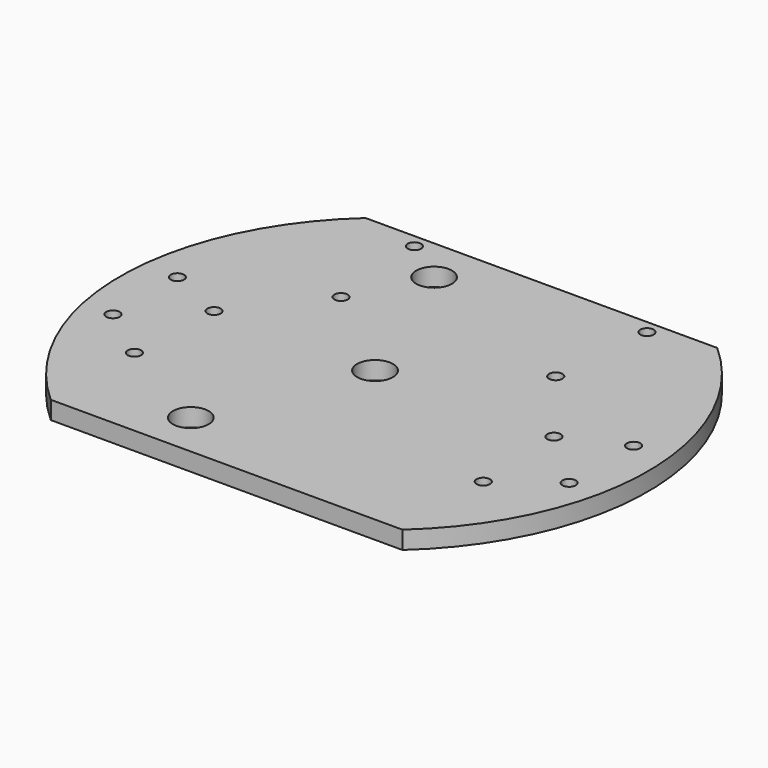
from build123d import *

# Parameters (mm, degrees)
CYLINDER1271_R     = 1.5
CYLINDER1271_DEPTH = 100
CYLINDER1270_R     = 1.5
CYLINDER1270_DEPTH = 100
CYLINDER1269_R     = 1.5
CYLINDER1269_DEPTH = 32
CYLINDER1268_R     = 1.5
CYLINDER1268_DEPTH = 32
BOX235_W           = 200
BOX235_H           = 100
BOX235_DEPTH       = 100
BOX233_W           = 200
BOX233_H           = 100
BOX233_DEPTH       = 100
CYLINDER1127_R     = 4
CYLINDER1127_DEPTH = 100
CYLINDER1128_R     = 4
CYLINDER1128_DEPTH = 100
CYLINDER1129_R     = 4
CYLINDER1129_DEPTH = 100
CYLINDER1125_R     = 4
CYLINDER1125_DEPTH = 100
CYLINDER1130_R     = 4
CYLINDER1130_DEPTH = 100
CYLINDER1126_R     = 4
CYLINDER1126_DEPTH = 100
CYLINDER1102_R     = 1.5
CYLINDER1102_DEPTH = 100
CYLINDER1103_R     = 1.5
CYLINDER1103_DEPTH = 100
CYLINDER1104_R     = 1.5
CYLINDER1104_DEPTH = 100
CYLINDER1105_R     = 1.5
CYLINDER1105_DEPTH = 100
CYLINDER1106_R     = 1.5
CYLINDER1106_DEPTH = 100
CYLINDER1107_R     = 1.5
CYLINDER1107_DEPTH = 100
CYLINDER1108_R     = 1.5
CYLINDER1108_DEPTH = 100
CYLINDER1101_R     = 1.5
CYLINDER1101_DEPTH = 100
CYLINDER1092_R     = 59
CYLINDER1092_DEPTH = 4


with BuildPart() as obj1:
    # Cylinder1271 → Cylinder1271 (new body)
    with BuildSketch(Plane(origin=(14, 0, -60), x_dir=(1, 0, 0), z_dir=(0, 0, 1))):
        Circle(CYLINDER1271_R)
    extrude(amount=CYLINDER1271_DEPTH)


with BuildPart() as obj2:
    # Cylinder1270 → Cylinder1270 (new body)
    with BuildSketch(Plane(origin=(90, 0, -60), x_dir=(1, 0, 0), z_dir=(0, 0, 1))):
        Circle(CYLINDER1270_R)
    extrude(amount=CYLINDER1270_DEPTH)

    # Compound834: union obj1
    add(obj1.part)


with BuildPart() as obj3:
    # Cylinder1269 → Cylinder1269 (new body)
    with BuildSketch(Plane(origin=(78, 41, -42), x_dir=(1, 0, 0), z_dir=(0, 0, 1))):
        Circle(CYLINDER1269_R)
    extrude(amount=CYLINDER1269_DEPTH)


with BuildPart() as compound833:
    # Cylinder1268 → Cylinder1268 (new body)
    with BuildSketch(Plane(origin=(26, 41, -42), x_dir=(1, 0, 0), z_dir=(0, 0, 1))):
        Circle(CYLINDER1268_R)
    extrude(amount=CYLINDER1268_DEPTH)

    # Compound833: union obj3
    add(obj3.part)


with BuildPart() as krychle235:
    # Box235 → Box235 (new body)
    with BuildSketch(Plane(origin=(-60, 44, -90), x_dir=(1, 0, 0), z_dir=(0, 0, 1))):
        with Locations((100, 50)):
            Rectangle(BOX235_W, BOX235_H)
    extrude(amount=BOX235_DEPTH)


with BuildPart() as krychle233:
    # Box233 → Box233 (new body)
    with BuildSketch(Plane(origin=(-60, -144, -90), x_dir=(1, 0, 0), z_dir=(0, 0, 1))):
        with Locations((100, 50)):
            Rectangle(BOX233_W, BOX233_H)
    extrude(amount=BOX233_DEPTH)


with BuildPart() as obj4:
    # Cylinder1127 → Cylinder1127 (new body)
    with BuildSketch(Plane(origin=(-36, 34, -90), x_dir=(1, 0, 0), z_dir=(0, 0, 1))):
        Circle(CYLINDER1127_R)
    extrude(amount=CYLINDER1127_DEPTH)


with BuildPart() as obj5:
    # Cylinder1128 → Cylinder1128 (new body)
    with BuildSketch(Plane(origin=(-36, -34, -90), x_dir=(1, 0, 0), z_dir=(0, 0, 1))):
        Circle(CYLINDER1128_R)
    extrude(amount=CYLINDER1128_DEPTH)


with BuildPart() as obj6:
    # Cylinder1129 → Cylinder1129 (new body)
    with BuildSketch(Plane(origin=(50, 0, -90), x_dir=(1, 0, 0), z_dir=(0, 0, 1))):
        Circle(CYLINDER1129_R)
    extrude(amount=CYLINDER1129_DEPTH)


with BuildPart() as obj7:
    # Cylinder1125 → Cylinder1125 (new body)
    with BuildSketch(Plane(origin=(36, 34, -90), x_dir=(1, 0, 0), z_dir=(0, 0, 1))):
        Circle(CYLINDER1125_R)
    extrude(amount=CYLINDER1125_DEPTH)


with BuildPart() as obj8:
    # Cylinder1130 → Cylinder1130 (new body)
    with BuildSketch(Plane(origin=(36, -34, -90), x_dir=(1, 0, 0), z_dir=(0, 0, 1))):
        Circle(CYLINDER1130_R)
    extrude(amount=CYLINDER1130_DEPTH)


with BuildPart() as obj9:
    # Cylinder1126 → Cylinder1126 (new body)
    with BuildSketch(Plane(origin=(-50, 0, -90), x_dir=(1, 0, 0), z_dir=(0, 0, 1))):
        Circle(CYLINDER1126_R)
    extrude(amount=CYLINDER1126_DEPTH)

    # Compound565: union obj4, obj5, obj6, obj7, obj8
    add(obj4.part)
    add(obj5.part)
    add(obj6.part)
    add(obj7.part)
    add(obj8.part)


with BuildPart() as obj10:
    # Cylinder1102 → Cylinder1102 (new body)
    with BuildSketch(Plane(origin=(103, 6, -60), x_dir=(1, 0, 0), z_dir=(0, 0, 1))):
        Circle(CYLINDER1102_R)
    extrude(amount=CYLINDER1102_DEPTH)


with BuildPart() as obj11:
    # Cylinder1103 → Cylinder1103 (new body)
    with BuildSketch(Plane(origin=(76, 18, -60), x_dir=(1, 0, 0), z_dir=(0, 0, 1))):
        Circle(CYLINDER1103_R)
    extrude(amount=CYLINDER1103_DEPTH)


with BuildPart() as obj12:
    # Cylinder1104 → Cylinder1104 (new body)
    with BuildSketch(Plane(origin=(91, -21, -60), x_dir=(1, 0, 0), z_dir=(0, 0, 1))):
        Circle(CYLINDER1104_R)
    extrude(amount=CYLINDER1104_DEPTH)


with BuildPart() as obj13:
    # Cylinder1105 → Cylinder1105 (new body)
    with BuildSketch(Plane(origin=(13, -21, -60), x_dir=(1, 0, 0), z_dir=(0, 0, 1))):
        Circle(CYLINDER1105_R)
    extrude(amount=CYLINDER1105_DEPTH)


with BuildPart() as obj14:
    # Cylinder1106 → Cylinder1106 (new body)
    with BuildSketch(Plane(origin=(28, 18, -60), x_dir=(1, 0, 0), z_dir=(0, 0, 1))):
        Circle(CYLINDER1106_R)
    extrude(amount=CYLINDER1106_DEPTH)


with BuildPart() as obj15:
    # Cylinder1107 → Cylinder1107 (new body)
    with BuildSketch(Plane(origin=(1, -12, -60), x_dir=(1, 0, 0), z_dir=(0, 0, 1))):
        Circle(CYLINDER1107_R)
    extrude(amount=CYLINDER1107_DEPTH)


with BuildPart() as obj16:
    # Cylinder1108 → Cylinder1108 (new body)
    with BuildSketch(Plane(origin=(1, 6, -60), x_dir=(1, 0, 0), z_dir=(0, 0, 1))):
        Circle(CYLINDER1108_R)
    extrude(amount=CYLINDER1108_DEPTH)


with BuildPart() as obj17:
    # Cylinder1101 → Cylinder1101 (new body)
    with BuildSketch(Plane(origin=(103, -12, -60), x_dir=(1, 0, 0), z_dir=(0, 0, 1))):
        Circle(CYLINDER1101_R)
    extrude(amount=CYLINDER1101_DEPTH)

    # Compound562: union obj10, obj11, obj12, obj13, obj14, obj15, obj16
    add(obj10.part)
    add(obj11.part)
    add(obj12.part)
    add(obj13.part)
    add(obj14.part)
    add(obj15.part)
    add(obj16.part)


with BuildPart() as cut291:
    # Cylinder1092 → Cylinder1092 (new body)
    with BuildSketch(Plane(origin=(52, 0, -26), x_dir=(1, 0, 0), z_dir=(0, 0, 1))):
        Circle(CYLINDER1092_R)
    extrude(amount=CYLINDER1092_DEPTH)

    # Cut250: cut obj17
    add(obj17.part, mode=Mode.SUBTRACT)

    # Cut251: cut obj9
    add(obj9.part, mode=Mode.SUBTRACT)

    # Cut285: cut Krychle233
    add(krychle233.part, mode=Mode.SUBTRACT)

    # Cut287: cut Krychle235
    add(krychle235.part, mode=Mode.SUBTRACT)

    # Cut288: cut Compound833
    add(compound833.part, mode=Mode.SUBTRACT)

    # Cut291: cut obj2
    add(obj2.part, mode=Mode.SUBTRACT)


solid = cut291.part
